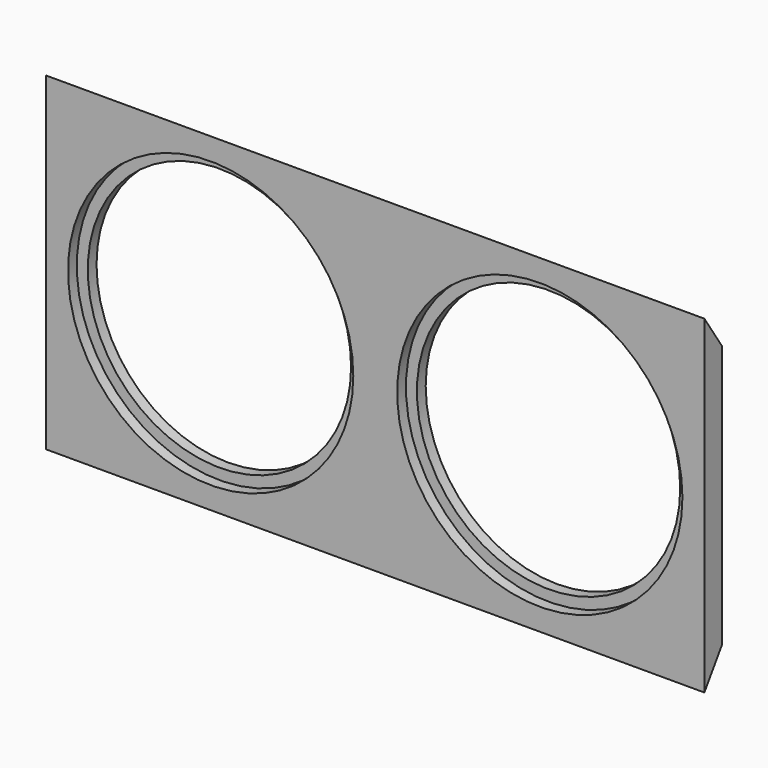
from build123d import *

# Parameters (mm, degrees)
F0_W     = 762
F0_H     = 381
F1_DEPTH = 25.4
F2_R     = 165.1
F3_DEPTH = 12.7
F4_R     = 152.4
F5_DEPTH = 25.4
F7_DEPTH = 762


with BuildPart() as f1:
    # F0 (on Front) → F1 (new body)
    with BuildSketch(Plane.XZ):
        Rectangle(F0_W, F0_H)
    extrude(amount=-F1_DEPTH)

    # F2 (on face) → F3 (cut)
    with BuildSketch(Plane.XZ):
        with Locations((-190.5, 0)):
            Circle(F2_R)
        with Locations((190.5, 0)):
            Circle(F2_R)
    extrude(amount=-F3_DEPTH, mode=Mode.SUBTRACT)

    # F4 (on face) → F5 (cut)
    with BuildSketch(Plane.XZ.offset(-12.7)):
        with Locations((-190.5, 0)):
            Circle(F4_R)
        with Locations((190.5, 0)):
            Circle(F4_R)
    extrude(amount=-F5_DEPTH, mode=Mode.SUBTRACT)

    # F6 (on face) → F7 (cut)
    with BuildSketch(Plane.YZ.offset(381)):
        Polygon((0, -190.5), (25.4, -190.5), (25.4, -152.4), align=None)
        Polygon((25.4, 190.5), (0, 190.5), (25.4, 152.4), align=None)
    extrude(amount=-F7_DEPTH, mode=Mode.SUBTRACT)


solid = f1.part
